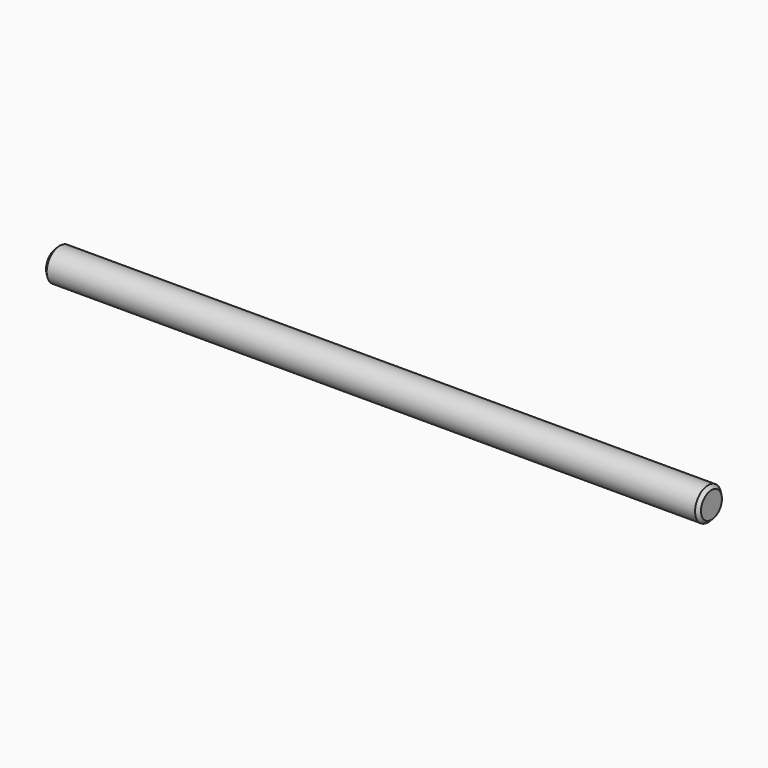
from build123d import *

# Parameters (mm, degrees)
F0_R     = 5
F1_DEPTH = 200
F2_SIZE2 = 1
F2_SIZE  = 1


with BuildPart() as f1:
    # F0 (on Right) → F1 (new body)
    with BuildSketch(Plane.YZ):
        Circle(F0_R)
        Circle(F0_R)
    extrude(amount=F1_DEPTH)

    # F2
    f2_edges = [f1.edges().sort_by_distance(p)[0] for p in [
        (200, -5, 0),
        (0, -5, 0),
    ]]
    chamfer(f2_edges, length=F2_SIZE, length2=F2_SIZE2)


solid = f1.part
